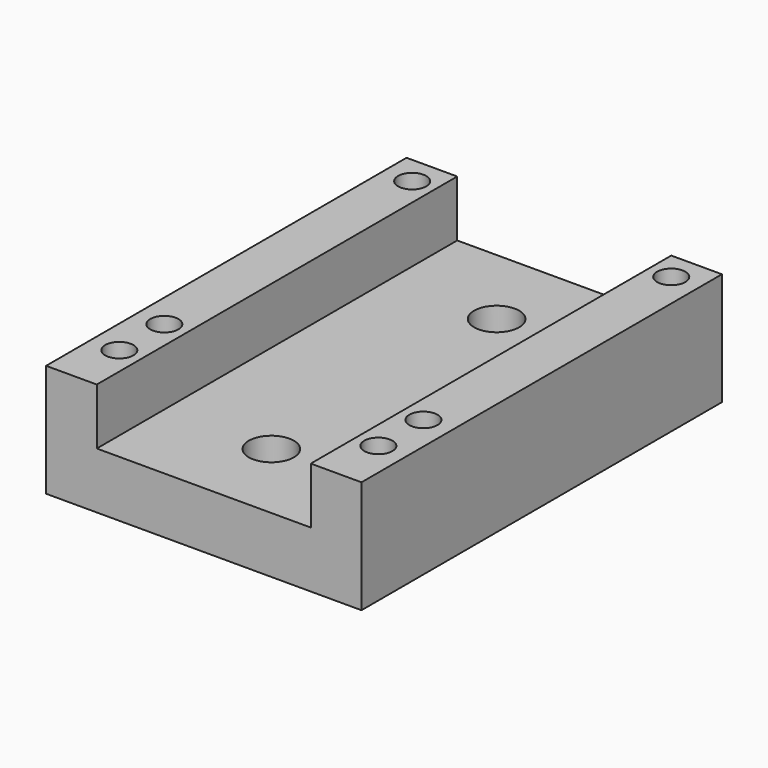
from build123d import *

# Parameters (mm, degrees)
F1_DEPTH = 80
F2_R     = 2.5
F3_DEPTH = 10
F5_D     = 5
F5_DEPTH = 15
F5_TIP   = 1.5021515476
F7_D     = 8


with BuildPart() as f1:
    # F0 (on Front) → F1 (new body)
    with BuildSketch(Plane.XZ):
        Polygon((-19, 20), (-28, 20), (-28, 0), (28, 0), (28, 20), (19, 20), (19, 10), (-19, 10), align=None)
    extrude(amount=F1_DEPTH)

    # F2 (on face) → F3 (cut)
    with BuildSketch(Plane.XY.offset(20)):
        with Locations((23, -60)):
            Circle(F2_R)
        with Locations((-23, -60)):
            Circle(F2_R)
    extrude(amount=-F3_DEPTH, mode=Mode.SUBTRACT)

    # F5
    with Locations(Plane.XY.offset(20)):
        with Locations((-23, -5), (23, -5), (23, -70), (-23, -70)):
            Hole(F5_D / 2, depth=F5_DEPTH)
            with Locations((0, 0, -(F5_DEPTH + F5_TIP / 2))):  # 118° drill point
                Cone(0, F5_D / 2, F5_TIP, mode=Mode.SUBTRACT)

    # F7 (through all)
    with Locations(Plane.XY.offset(10)):
        with Locations((0, -15), (0, -65)):
            Hole(F7_D / 2)


solid = f1.part
